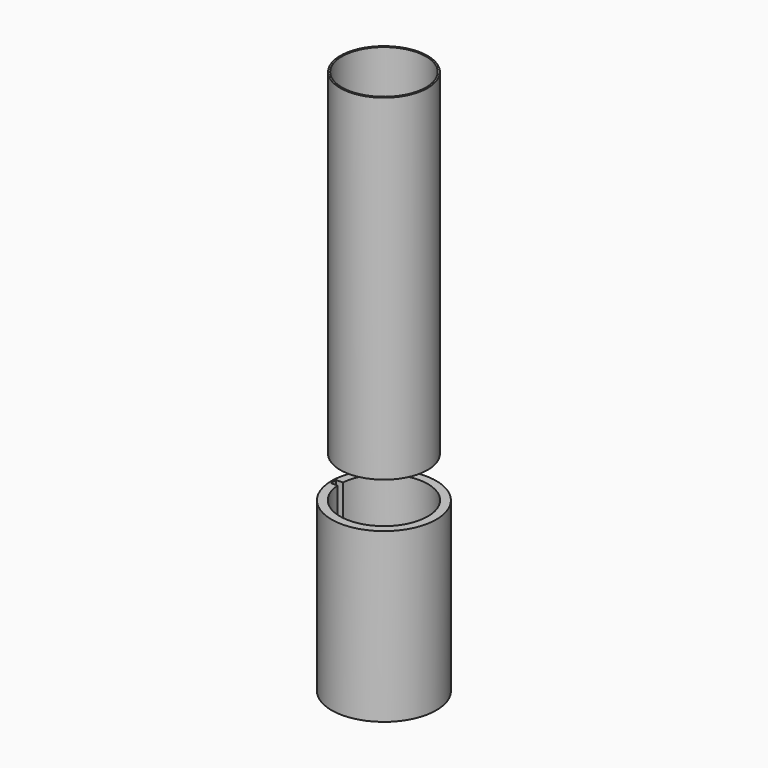
from build123d import *

# Parameters (mm, degrees)
F2_R      = 6.604
F2_R_2    = 6.35
F6_DEPTH  = 50.8
F10_DEPTH = 12.1158


with BuildPart() as f5:
    # F4 (on Front) → F5 (revolve)
    with BuildSketch(Plane.XZ):
        Polygon((-6.6317934543, -17.2770749778), (-6.6317934543, -6.1637992039), (-7.9109435901, -6.1637992039), (-7.9109435901, -31.539734453), (-6.6317934543, -31.539734453), (-5.2126999944, -28.2172597945), (-6.6317934543, -23.6488562077), (-6.6317934543, -18.3032099158), (-7.6504037715, -18.3032099158), (-7.6504037715, -17.2770749778), align=None)
    revolve(axis=Axis((0, 0, 4.9336738884), (0, 0, -1)))

    # F9 (on face) → F10 (cut)
    with BuildSketch(Plane.XY.offset(-6.1637992039)):
        with BuildLine():
            ThreePointArc((-6.6142721045, -0.4817561087), (-6.6317812883, 0.0127029421), (-6.6123780023, 0.5070912885))
            Line((-6.6123780023, 0.5070912885), (-7.6176812872, 0.5070912885))
            Line((-7.6176812872, 0.5070912885), (-7.6176812872, -0.5042540142))
            Line((-7.6176812872, -0.5042540142), (-6.6143763252, -0.5042540142))
            Line((-6.6143763252, -0.5042540142), (-6.6142721045, -0.4817561087))
        make_face()
    extrude(amount=-F10_DEPTH, mode=Mode.SUBTRACT)


with BuildPart() as f6:
    # F2 (on face) → F6 (new body)
    with BuildSketch(Plane.XY):
        Circle(F2_R)
        Circle(F2_R_2, mode=Mode.SUBTRACT)
    extrude(amount=F6_DEPTH)


solid = Compound([f5.part, f6.part])
